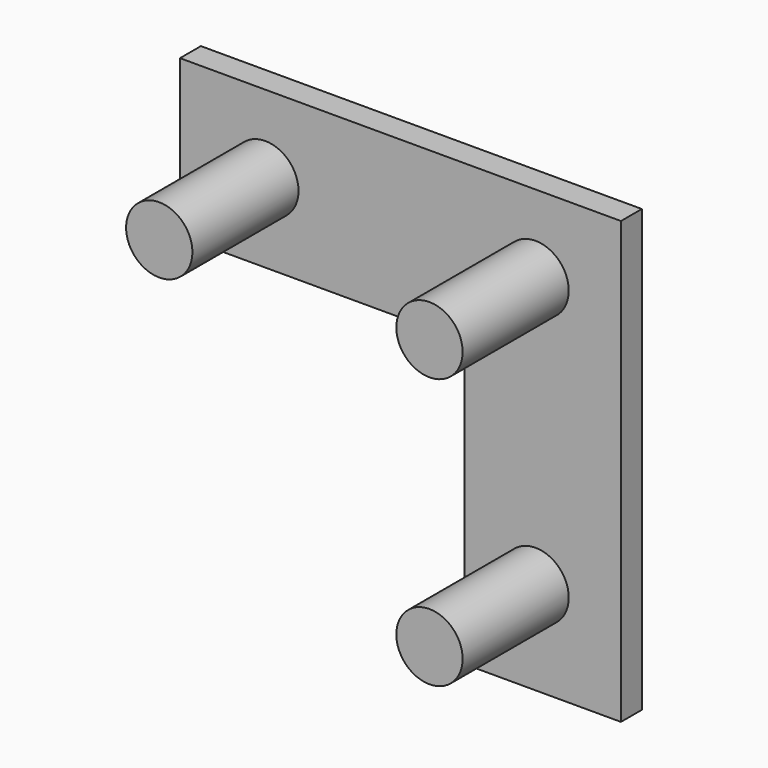
from build123d import *

# Parameters (mm, degrees)
F0_W     = 60
F0_H     = 108.9
F0_R     = 12.7
F1_DEPTH = 10
F2_DEPTH = 60.8


with BuildPart() as f1:
    # F0 (on Front) → F1 (new body)
    with BuildSketch(Plane.XZ):
        with BuildLine():
            Line((-60, 60), (-168.9, 60))
            Line((-168.9, 60), (-168.9, 30))
            Line((-168.9, 30), (-148.9, 30))
            ThreePointArc((-148.9, 30), (-136.2, 42.7), (-123.5, 30))
            Line((-123.5, 30), (-60, 30))
            Line((-60, 30), (-60, 60))
        make_face()
        with BuildLine():
            Line((0, 60), (-60, 60))
            Line((-60, 60), (-60, 30))
            Line((-60, 30), (-45.4, 30))
            ThreePointArc((-45.4, 30), (-32.7, 42.7), (-20, 30))
            Line((-20, 30), (0, 30))
            Line((0, 30), (0, 60))
        make_face()
        with BuildLine():
            Line((-148.9, 30), (-168.9, 30))
            Line((-168.9, 30), (-168.9, 0))
            Line((-168.9, 0), (-60, 0))
            Line((-60, 0), (-60, 30))
            Line((-60, 30), (-123.5, 30))
            ThreePointArc((-123.5, 30), (-136.2, 17.3), (-148.9, 30))
        make_face()
        with BuildLine():
            Line((-45.4, 30), (-60, 30))
            Line((-60, 30), (-60, 0))
            Line((-60, 0), (0, 0))
            Line((0, 0), (0, 30))
            Line((0, 30), (-20, 30))
            ThreePointArc((-20, 30), (-32.7, 17.3), (-45.4, 30))
        make_face()
        with Locations((-30, -54.45)):
            Rectangle(F0_W, F0_H)
        with Locations((-32.7, -73.5)):
            Circle(F0_R, mode=Mode.SUBTRACT)
    extrude(amount=F1_DEPTH)

    # F0 (on Front) → F2 (join)
    with BuildSketch(Plane.XZ):
        with BuildLine():
            Line((-123.5, 30), (-148.9, 30))
            ThreePointArc((-148.9, 30), (-136.2, 17.3), (-123.5, 30))
        make_face()
        with BuildLine():
            ThreePointArc((-123.5, 30), (-136.2, 42.7), (-148.9, 30))
            Line((-148.9, 30), (-123.5, 30))
        make_face()
        with BuildLine():
            ThreePointArc((-20, 30), (-32.7, 42.7), (-45.4, 30))
            Line((-45.4, 30), (-20, 30))
        make_face()
        with BuildLine():
            Line((-20, 30), (-45.4, 30))
            ThreePointArc((-45.4, 30), (-32.7, 17.3), (-20, 30))
        make_face()
        with Locations((-32.7, -73.5)):
            Circle(F0_R)
    extrude(amount=F2_DEPTH)


solid = f1.part
